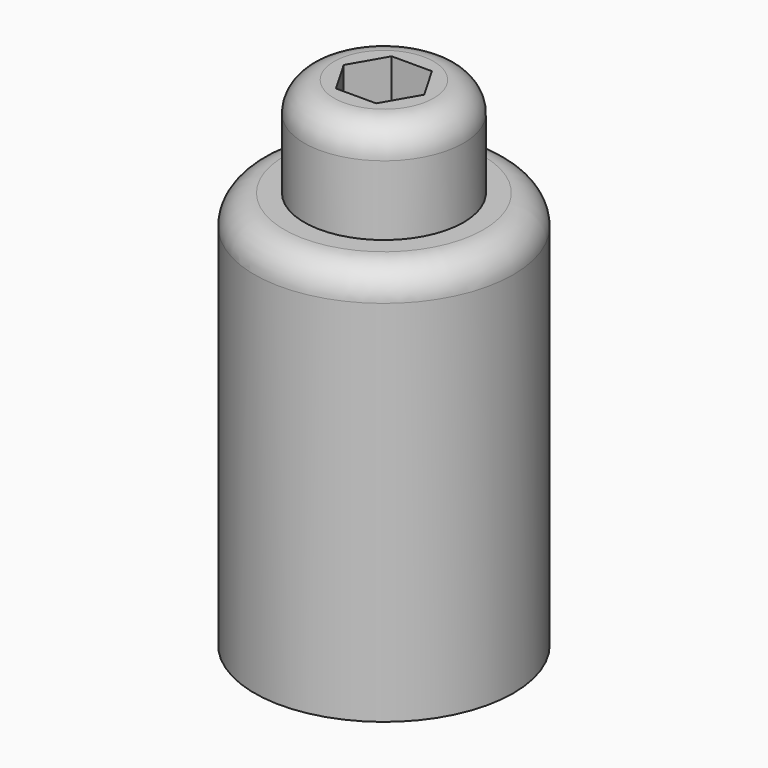
from build123d import *

# Parameters (mm, degrees)
F0_R     = 8.255
F1_DEPTH = 25.4
F2_R     = 5.08
F3_DEPTH = 6.35
F5_DEPTH = 3.048
F6_R     = 1.905


with BuildPart() as f1:
    # F0 (on Top) → F1 (new body)
    with BuildSketch(Plane.XY):
        Circle(F0_R)
    extrude(amount=F1_DEPTH)

    # F2 (on face) → F3 (join)
    with BuildSketch(Plane.XY.offset(25.4)):
        Circle(F2_R)
    extrude(amount=F3_DEPTH)

    # F4 (on face) → F5 (cut)
    with BuildSketch(Plane.XY.offset(31.75)):
        Polygon((1.283161, 2.2225), (-1.283161, 2.2225), (-2.566322, 0), (-1.283161, -2.2225), (1.283161, -2.2225), (2.566322, 0), align=None)
    extrude(amount=-F5_DEPTH, mode=Mode.SUBTRACT)

    # F6
    f6_edges = [f1.edges().sort_by_distance(p)[0] for p in [
        (-8.255, 0, 25.4),
        (-5.08, 0, 31.75),
    ]]
    fillet(f6_edges, radius=F6_R)


solid = f1.part
